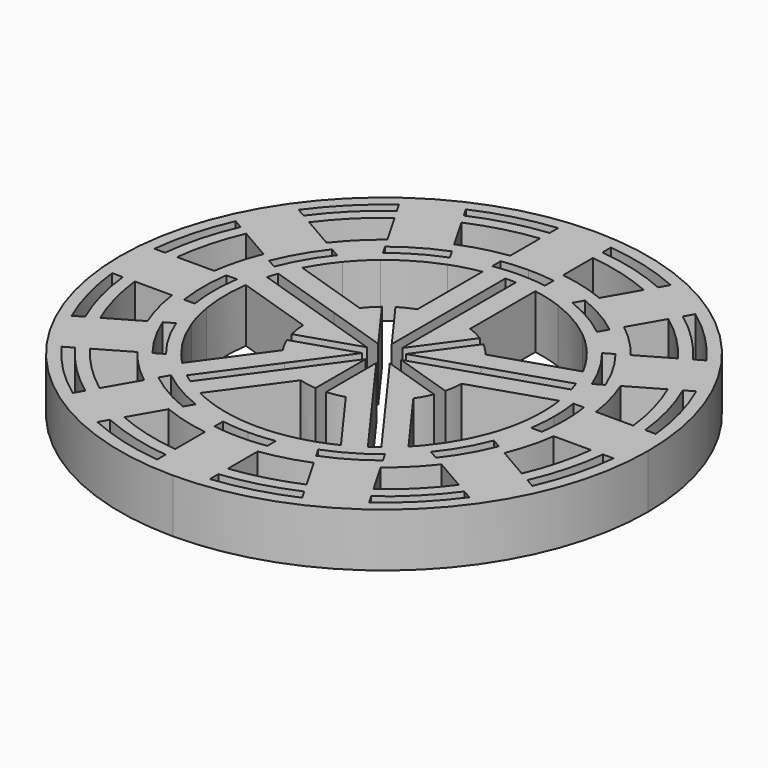
from build123d import *

# Parameters (mm, degrees)
F1_DEPTH = 5.08


with BuildPart() as f1:
    # F0 (on Top) → F1 (new body)
    with BuildSketch(Plane.XY):
        with BuildLine():
            Line((-114.7859122318, 6.0920872602), (-113.7987962999, 5.5221756112))
            ThreePointArc((-113.7987962999, 5.5221756112), (-112.3799410533, 7.5897504985), (-111.2987962999, 9.8523026301))
            Line((-111.2987962999, 9.8523026301), (-112.2859122318, 10.4222142791))
            ThreePointArc((-112.2859122318, 10.4222142791), (-113.3542196325, 8.1522504985), (-114.7859122318, 6.0920872602))
        make_face()
        with BuildLine():
            Line((-112.9228005697, 5.0164192405), (-111.9386313804, 4.4482088942))
            ThreePointArc((-111.9386313804, 4.4482088942), (-110.5396370702, 6.5272504985), (-109.4386313804, 8.7783359131))
            Line((-109.4386313804, 8.7783359131), (-110.4228005697, 9.3465462594))
            ThreePointArc((-110.4228005697, 9.3465462594), (-111.5139156495, 7.0897504985), (-112.9228005697, 5.0164192405))
        make_face()
        with BuildLine():
            ThreePointArc((-128.8446006893, -0.2777722573), (-127.5983965385, -0.4239312922), (-126.3446006893, -0.4727495015))
            Line((-126.3446006893, -0.4727495015), (-126.3446006893, 0.6522504985))
            ThreePointArc((-126.3446006893, 0.6522504985), (-127.5989945935, 0.7047926567), (-128.8446006893, 0.8620510408))
            Line((-128.8446006893, 0.8620510408), (-128.8446006893, -0.2777722573))
        make_face()
        with BuildLine():
            ThreePointArc((-128.8446006893, -2.4257056913), (-127.5975571004, -2.5546877458), (-126.3446006893, -2.5977495015))
            Line((-126.3446006893, -2.5977495015), (-126.3446006893, -1.4727495015))
            ThreePointArc((-126.3446006893, -1.4727495015), (-127.5979620921, -1.4268217887), (-128.8446006893, -1.2892849986))
            Line((-128.8446006893, -1.2892849986), (-128.8446006893, -2.4257056913))
        make_face()
        with BuildLine():
            Line((-126.3446006893, 33.9022504985), (-126.3446006893, 37.4022504985))
            ThreePointArc((-126.3446006893, 37.4022504985), (-127.5966770566, 37.3661816205), (-128.8446006893, 37.2580946153))
            Line((-128.8446006893, 37.2580946153), (-128.8446006893, 33.7302066883))
            ThreePointArc((-128.8446006893, 33.7302066883), (-127.5975571004, 33.8591887428), (-126.3446006893, 33.9022504985))
        make_face()
        with BuildLine():
            ThreePointArc((-128.8446006893, -5.9535936183), (-127.5966770566, -6.0616806235), (-126.3446006893, -6.0977495015))
            Line((-126.3446006893, -6.0977495015), (-126.3446006893, -2.5977495015))
            ThreePointArc((-126.3446006893, -2.5977495015), (-127.5975571004, -2.5546877458), (-128.8446006893, -2.4257056913))
            Line((-128.8446006893, -2.4257056913), (-128.8446006893, -5.9535936183))
        make_face()
        with BuildLine():
            Line((-126.3446006893, 39.5272504985), (-126.3446006893, 40.6522504985))
            ThreePointArc((-126.3446006893, 40.6522504985), (-151.3446006893, 15.6522504985), (-126.3446006893, -9.3477495015))
            Line((-126.3446006893, -9.3477495015), (-126.3446006893, -8.2227495015))
            ThreePointArc((-126.3446006893, -8.2227495015), (-127.5963221817, -8.1899142166), (-128.8446006893, -8.0914986789))
            ThreePointArc((-128.8446006893, -8.0914986789), (-132.5239053911, -7.4092286041), (-136.0514117685, -6.1604394702))
            ThreePointArc((-136.0514117685, -6.1604394702), (-138.2821006893, -5.0241060168), (-140.3815387875, -3.6604394702))
            ThreePointArc((-140.3815387875, -3.6604394702), (-143.2267750901, -1.2299239023), (-145.657290658, 1.6153124004))
            ThreePointArc((-145.657290658, 1.6153124004), (-147.0209572046, 3.7147504985), (-148.157290658, 5.9454394193))
            ThreePointArc((-148.157290658, 5.9454394193), (-149.4060797919, 9.4729457967), (-150.0883498667, 13.1522504985))
            ThreePointArc((-150.0883498667, 13.1522504985), (-150.2196006893, 15.6522504985), (-150.0883498667, 18.1522504985))
            ThreePointArc((-150.0883498667, 18.1522504985), (-149.4060797919, 21.8315552004), (-148.157290658, 25.3590615778))
            ThreePointArc((-148.157290658, 25.3590615778), (-147.0209572046, 27.5897504985), (-145.657290658, 29.6891885967))
            ThreePointArc((-145.657290658, 29.6891885967), (-143.2267750901, 32.5344248994), (-140.3815387875, 34.9649404673))
            ThreePointArc((-140.3815387875, 34.9649404673), (-138.2821006893, 36.3286070139), (-136.0514117685, 37.4649404673))
            ThreePointArc((-136.0514117685, 37.4649404673), (-132.5239053911, 38.7137296012), (-128.8446006893, 39.3959996759))
            ThreePointArc((-128.8446006893, 39.3959996759), (-127.5963221817, 39.4944152137), (-126.3446006893, 39.5272504985))
        make_face()
        with BuildLine():
            ThreePointArc((-126.3446006893, -9.3477495015), (-108.6669311596, -2.0254190311), (-101.3446006893, 15.6522504985))
            ThreePointArc((-101.3446006893, 15.6522504985), (-108.6669311596, 33.3299200282), (-126.3446006893, 40.6522504985))
            Line((-126.3446006893, 40.6522504985), (-126.3446006893, 39.5272504985))
            ThreePointArc((-126.3446006893, 39.5272504985), (-125.0928791969, 39.4944152137), (-123.8446006893, 39.3959996759))
            ThreePointArc((-123.8446006893, 39.3959996759), (-120.1652959875, 38.7137296012), (-116.63778961, 37.4649404673))
            ThreePointArc((-116.63778961, 37.4649404673), (-114.4071006893, 36.3286070139), (-112.3076625911, 34.9649404673))
            ThreePointArc((-112.3076625911, 34.9649404673), (-109.4624262885, 32.5344248994), (-107.0319107206, 29.6891885967))
            ThreePointArc((-107.0319107206, 29.6891885967), (-105.6682441739, 27.5897504985), (-104.5319107206, 25.3590615778))
            ThreePointArc((-104.5319107206, 25.3590615778), (-103.2831215866, 21.8315552004), (-102.6008515119, 18.1522504985))
            ThreePointArc((-102.6008515119, 18.1522504985), (-102.5024359741, 16.903971991), (-102.4696006893, 15.6522504985))
            ThreePointArc((-102.4696006893, 15.6522504985), (-102.5024359741, 14.4005290061), (-102.6008515119, 13.1522504985))
            ThreePointArc((-102.6008515119, 13.1522504985), (-103.2831215866, 9.4729457967), (-104.5319107206, 5.9454394193))
            ThreePointArc((-104.5319107206, 5.9454394193), (-105.6682441739, 3.7147504985), (-107.0319107206, 1.6153124004))
            ThreePointArc((-107.0319107206, 1.6153124004), (-109.4624262885, -1.2299239023), (-112.3076625911, -3.6604394702))
            ThreePointArc((-112.3076625911, -3.6604394702), (-114.4071006893, -5.0241060168), (-116.63778961, -6.1604394702))
            ThreePointArc((-116.63778961, -6.1604394702), (-120.1652959875, -7.4092286041), (-123.8446006893, -8.0914986789))
            ThreePointArc((-123.8446006893, -8.0914986789), (-125.0928791969, -8.1899142166), (-126.3446006893, -8.2227495015))
            Line((-126.3446006893, -8.2227495015), (-126.3446006893, -9.3477495015))
        make_face()
        with BuildLine():
            Line((-131.5746369087, 29.710938956), (-132.1445485577, 30.6980548879))
            ThreePointArc((-132.1445485577, 30.6980548879), (-134.4071006893, 29.6169101346), (-136.4746755766, 28.1980548879))
            Line((-136.4746755766, 28.1980548879), (-135.9047639276, 27.210938956))
            ThreePointArc((-135.9047639276, 27.210938956), (-133.8446006893, 28.6426315553), (-131.5746369087, 29.710938956))
        make_face()
        with BuildLine():
            Line((-132.6503049284, 31.5740506182), (-133.2185152747, 32.5582198074))
            ThreePointArc((-133.2185152747, 32.5582198074), (-135.4696006893, 31.4572141176), (-137.5486422936, 30.0582198074))
            Line((-137.5486422936, 30.0582198074), (-136.9804319473, 29.0740506182))
            ThreePointArc((-136.9804319473, 29.0740506182), (-134.9071006893, 30.4829355383), (-132.6503049284, 31.5740506182))
        make_face()
        with BuildLine():
            Line((-133.2185152747, 32.5582198074), (-134.9824592382, 35.6134603739))
            ThreePointArc((-134.9824592382, 35.6134603739), (-137.2196006893, 34.4883030308), (-139.3125862572, 33.1134603739))
            Line((-139.3125862572, 33.1134603739), (-137.5486422936, 30.0582198074))
            ThreePointArc((-137.5486422936, 30.0582198074), (-135.4696006893, 31.4572141176), (-133.2185152747, 32.5582198074))
        make_face()
        with BuildLine():
            Line((-140.7505699981, 26.8562921029), (-143.8058105647, 28.6202360664))
            ThreePointArc((-143.8058105647, 28.6202360664), (-145.1806532216, 26.5272504985), (-146.3058105647, 24.2901090475))
            Line((-146.3058105647, 24.2901090475), (-143.2505699981, 22.526165084))
            ThreePointArc((-143.2505699981, 22.526165084), (-142.1495643084, 24.7772504985), (-140.7505699981, 26.8562921029))
        make_face()
        with BuildLine():
            Line((-139.7664008089, 26.2880817566), (-140.7505699981, 26.8562921029))
            ThreePointArc((-140.7505699981, 26.8562921029), (-142.1495643084, 24.7772504985), (-143.2505699981, 22.526165084))
            Line((-143.2505699981, 22.526165084), (-142.2664008089, 21.9579547376))
            ThreePointArc((-142.2664008089, 21.9579547376), (-141.1752857291, 24.2147504985), (-139.7664008089, 26.2880817566))
        make_face()
        with BuildLine():
            Line((-144.4225568791, 18.1522504985), (-147.9504448061, 18.1522504985))
            ThreePointArc((-147.9504448061, 18.1522504985), (-148.0946006893, 15.6522504985), (-147.9504448061, 13.1522504985))
            Line((-147.9504448061, 13.1522504985), (-144.4225568791, 13.1522504985))
            ThreePointArc((-144.4225568791, 13.1522504985), (-144.5946006893, 15.6522504985), (-144.4225568791, 18.1522504985))
        make_face()
        with BuildLine():
            Line((-143.2861361864, 18.1522504985), (-144.4225568791, 18.1522504985))
            ThreePointArc((-144.4225568791, 18.1522504985), (-144.5946006893, 15.6522504985), (-144.4225568791, 13.1522504985))
            Line((-144.4225568791, 13.1522504985), (-143.2861361864, 13.1522504985))
            ThreePointArc((-143.2861361864, 13.1522504985), (-143.4696006893, 15.6522504985), (-143.2861361864, 18.1522504985))
        make_face()
        with BuildLine():
            Line((-135.9047639276, 27.210938956), (-136.4746755766, 28.1980548879))
            ThreePointArc((-136.4746755766, 28.1980548879), (-137.7466975359, 27.0543473452), (-138.8904050787, 25.7823253859))
            Line((-138.8904050787, 25.7823253859), (-137.9032891467, 25.2124137369))
            ThreePointArc((-137.9032891467, 25.2124137369), (-136.9512024071, 26.2588522163), (-135.9047639276, 27.210938956))
        make_face()
        with BuildLine():
            Line((-136.9804319473, 29.0740506182), (-137.5486422936, 30.0582198074))
            ThreePointArc((-137.5486422936, 30.0582198074), (-139.2492994459, 28.5569492552), (-140.7505699981, 26.8562921029))
            Line((-140.7505699981, 26.8562921029), (-139.7664008089, 26.2880817566))
            ThreePointArc((-139.7664008089, 26.2880817566), (-138.4538043171, 27.7614541264), (-136.9804319473, 29.0740506182))
        make_face()
        with BuildLine():
            Line((-142.2664008089, 21.9579547376), (-143.2505699981, 22.526165084))
            ThreePointArc((-143.2505699981, 22.526165084), (-143.9727470191, 20.3756980717), (-144.4225568791, 18.1522504985))
            Line((-144.4225568791, 18.1522504985), (-143.2861361864, 18.1522504985))
            ThreePointArc((-143.2861361864, 18.1522504985), (-142.8860804645, 20.0845266459), (-142.2664008089, 21.9579547376))
        make_face()
        with BuildLine():
            ThreePointArc((-142.2746234451, 13.1522504985), (-141.9201546382, 11.4787933963), (-141.3904050787, 9.8523026301))
            Line((-141.3904050787, 9.8523026301), (-140.4032891467, 10.4222142791))
            ThreePointArc((-140.4032891467, 10.4222142791), (-140.8334880836, 11.769964822), (-141.134800147, 13.1522504985))
            Line((-141.134800147, 13.1522504985), (-142.2746234451, 13.1522504985))
        make_face()
        with BuildLine():
            ThreePointArc((-144.4225568791, 13.1522504985), (-143.9727470191, 10.9288029254), (-143.2505699981, 8.7783359131))
            Line((-143.2505699981, 8.7783359131), (-142.2664008089, 9.3465462594))
            ThreePointArc((-142.2664008089, 9.3465462594), (-142.8860804645, 11.2199743512), (-143.2861361864, 13.1522504985))
            Line((-143.2861361864, 13.1522504985), (-144.4225568791, 13.1522504985))
        make_face()
        with BuildLine():
            ThreePointArc((-141.3904050787, 9.8523026301), (-140.3092603253, 7.5897504985), (-138.8904050787, 5.5221756112))
            Line((-138.8904050787, 5.5221756112), (-137.9032891467, 6.0920872602))
            ThreePointArc((-137.9032891467, 6.0920872602), (-139.3349817461, 8.1522504985), (-140.4032891467, 10.4222142791))
            Line((-140.4032891467, 10.4222142791), (-141.3904050787, 9.8523026301))
        make_face()
        with BuildLine():
            ThreePointArc((-143.2505699981, 8.7783359131), (-142.1495643084, 6.5272504985), (-140.7505699981, 4.4482088942))
            Line((-140.7505699981, 4.4482088942), (-139.7664008089, 5.0164192405))
            ThreePointArc((-139.7664008089, 5.0164192405), (-141.1752857291, 7.0897504985), (-142.2664008089, 9.3465462594))
            Line((-142.2664008089, 9.3465462594), (-143.2505699981, 8.7783359131))
        make_face()
        with BuildLine():
            ThreePointArc((-146.3058105647, 7.0143919496), (-145.1806532216, 4.7772504985), (-143.8058105647, 2.6842649307))
            Line((-143.8058105647, 2.6842649307), (-140.7505699981, 4.4482088942))
            ThreePointArc((-140.7505699981, 4.4482088942), (-142.1495643084, 6.5272504985), (-143.2505699981, 8.7783359131))
            Line((-143.2505699981, 8.7783359131), (-146.3058105647, 7.0143919496))
        make_face()
        with BuildLine():
            ThreePointArc((-139.3125862572, -1.8089593768), (-137.2196006893, -3.1838020338), (-134.9824592382, -4.3089593768))
            Line((-134.9824592382, -4.3089593768), (-133.2185152747, -1.2537188103))
            ThreePointArc((-133.2185152747, -1.2537188103), (-135.4696006893, -0.1527131205), (-137.5486422936, 1.2462811897))
            Line((-137.5486422936, 1.2462811897), (-139.3125862572, -1.8089593768))
        make_face()
        with BuildLine():
            ThreePointArc((-137.5486422936, 1.2462811897), (-135.4696006893, -0.1527131205), (-133.2185152747, -1.2537188103))
            Line((-133.2185152747, -1.2537188103), (-132.6503049284, -0.2695496211))
            ThreePointArc((-132.6503049284, -0.2695496211), (-134.9071006893, 0.8215654587), (-136.9804319473, 2.2304503789))
            Line((-136.9804319473, 2.2304503789), (-137.5486422936, 1.2462811897))
        make_face()
        with BuildLine():
            ThreePointArc((-140.7505699981, 4.4482088942), (-139.2492994459, 2.7475517419), (-137.5486422936, 1.2462811897))
            Line((-137.5486422936, 1.2462811897), (-136.9804319473, 2.2304503789))
            ThreePointArc((-136.9804319473, 2.2304503789), (-138.4538043171, 3.5430468707), (-139.7664008089, 5.0164192405))
            Line((-139.7664008089, 5.0164192405), (-140.7505699981, 4.4482088942))
        make_face()
        with BuildLine():
            ThreePointArc((-132.1445485577, 0.6064461092), (-130.5180577916, 0.0766965496), (-128.8446006893, -0.2777722573))
            Line((-128.8446006893, -0.2777722573), (-128.8446006893, 0.8620510408))
            ThreePointArc((-128.8446006893, 0.8620510408), (-130.2268863658, 1.1633631042), (-131.5746369087, 1.5935620411))
            Line((-131.5746369087, 1.5935620411), (-132.1445485577, 0.6064461092))
        make_face()
        with BuildLine():
            ThreePointArc((-133.2185152747, -1.2537188103), (-131.0680482624, -1.9758958312), (-128.8446006893, -2.4257056913))
            Line((-128.8446006893, -2.4257056913), (-128.8446006893, -1.2892849986))
            ThreePointArc((-128.8446006893, -1.2892849986), (-130.7768768367, -0.8892292767), (-132.6503049284, -0.2695496211))
            Line((-132.6503049284, -0.2695496211), (-133.2185152747, -1.2537188103))
        make_face()
        with BuildLine():
            Line((-126.3446006893, 0.6522504985), (-126.3446006893, -0.4727495015))
            ThreePointArc((-126.3446006893, -0.4727495015), (-125.0908048401, -0.4239312922), (-123.8446006893, -0.2777722573))
            Line((-123.8446006893, -0.2777722573), (-123.8446006893, 0.8620510408))
            ThreePointArc((-123.8446006893, 0.8620510408), (-125.0902067851, 0.7047926567), (-126.3446006893, 0.6522504985))
        make_face()
        with BuildLine():
            Line((-126.3446006893, -1.4727495015), (-126.3446006893, -2.5977495015))
            ThreePointArc((-126.3446006893, -2.5977495015), (-125.0916442782, -2.5546877458), (-123.8446006893, -2.4257056913))
            Line((-123.8446006893, -2.4257056913), (-123.8446006893, -1.2892849986))
            ThreePointArc((-123.8446006893, -1.2892849986), (-125.0912392865, -1.4268217887), (-126.3446006893, -1.4727495015))
        make_face()
        with BuildLine():
            Line((-126.3446006893, -2.5977495015), (-126.3446006893, -6.0977495015))
            ThreePointArc((-126.3446006893, -6.0977495015), (-125.0925243219, -6.0616806235), (-123.8446006893, -5.9535936183))
            Line((-123.8446006893, -5.9535936183), (-123.8446006893, -2.4257056913))
            ThreePointArc((-123.8446006893, -2.4257056913), (-125.0916442782, -2.5546877458), (-126.3446006893, -2.5977495015))
        make_face()
        with BuildLine():
            Line((-123.8446006893, 0.8620510408), (-123.8446006893, -0.2777722573))
            ThreePointArc((-123.8446006893, -0.2777722573), (-122.171143587, 0.0766965496), (-120.5446528209, 0.6064461092))
            Line((-120.5446528209, 0.6064461092), (-121.1145644699, 1.5935620411))
            ThreePointArc((-121.1145644699, 1.5935620411), (-122.4623150127, 1.1633631042), (-123.8446006893, 0.8620510408))
        make_face()
        with BuildLine():
            Line((-123.8446006893, -1.2892849986), (-123.8446006893, -2.4257056913))
            ThreePointArc((-123.8446006893, -2.4257056913), (-121.6211531162, -1.9758958312), (-119.4706861039, -1.2537188103))
            Line((-119.4706861039, -1.2537188103), (-120.0388964502, -0.2695496211))
            ThreePointArc((-120.0388964502, -0.2695496211), (-121.9123245419, -0.8892292767), (-123.8446006893, -1.2892849986))
        make_face()
        with BuildLine():
            Line((-120.0388964502, -0.2695496211), (-119.4706861039, -1.2537188103))
            ThreePointArc((-119.4706861039, -1.2537188103), (-117.2196006893, -0.1527131205), (-115.1405590849, 1.2462811897))
            Line((-115.1405590849, 1.2462811897), (-115.7087694313, 2.2304503789))
            ThreePointArc((-115.7087694313, 2.2304503789), (-117.7821006893, 0.8215654587), (-120.0388964502, -0.2695496211))
        make_face()
        with BuildLine():
            Line((-115.7087694313, 2.2304503789), (-115.1405590849, 1.2462811897))
            ThreePointArc((-115.1405590849, 1.2462811897), (-113.4399019326, 2.7475517419), (-111.9386313804, 4.4482088942))
            Line((-111.9386313804, 4.4482088942), (-112.9228005697, 5.0164192405))
            ThreePointArc((-112.9228005697, 5.0164192405), (-114.2353970615, 3.5430468707), (-115.7087694313, 2.2304503789))
        make_face()
        with BuildLine():
            Line((-112.2859122318, 10.4222142791), (-111.2987962999, 9.8523026301))
            ThreePointArc((-111.2987962999, 9.8523026301), (-110.7690467404, 11.4787933963), (-110.4145779335, 13.1522504985))
            Line((-110.4145779335, 13.1522504985), (-111.5544012315, 13.1522504985))
            ThreePointArc((-111.5544012315, 13.1522504985), (-111.855713295, 11.769964822), (-112.2859122318, 10.4222142791))
        make_face()
        with BuildLine():
            Line((-110.4228005697, 9.3465462594), (-109.4386313804, 8.7783359131))
            ThreePointArc((-109.4386313804, 8.7783359131), (-108.7164543595, 10.9288029254), (-108.2666444995, 13.1522504985))
            Line((-108.2666444995, 13.1522504985), (-109.4030651922, 13.1522504985))
            ThreePointArc((-109.4030651922, 13.1522504985), (-109.8031209141, 11.2199743512), (-110.4228005697, 9.3465462594))
        make_face()
        with BuildLine():
            ThreePointArc((-108.0946006893, 15.6522504985), (-108.137662445, 16.9052069096), (-108.2666444995, 18.1522504985))
            Line((-108.2666444995, 18.1522504985), (-109.4030651922, 18.1522504985))
            ThreePointArc((-109.4030651922, 18.1522504985), (-109.265528402, 16.9056119013), (-109.2196006893, 15.6522504985))
            ThreePointArc((-109.2196006893, 15.6522504985), (-109.265528402, 14.3988890958), (-109.4030651922, 13.1522504985))
            Line((-109.4030651922, 13.1522504985), (-108.2666444995, 13.1522504985))
            ThreePointArc((-108.2666444995, 13.1522504985), (-108.137662445, 14.3992940874), (-108.0946006893, 15.6522504985))
        make_face()
        with BuildLine():
            ThreePointArc((-108.2666444995, 18.1522504985), (-108.7164543595, 20.3756980717), (-109.4386313804, 22.526165084))
            Line((-109.4386313804, 22.526165084), (-110.4228005697, 21.9579547376))
            ThreePointArc((-110.4228005697, 21.9579547376), (-109.8031209141, 20.0845266459), (-109.4030651922, 18.1522504985))
            Line((-109.4030651922, 18.1522504985), (-108.2666444995, 18.1522504985))
        make_face()
        with BuildLine():
            ThreePointArc((-109.4386313804, 22.526165084), (-110.5396370702, 24.7772504985), (-111.9386313804, 26.8562921029))
            Line((-111.9386313804, 26.8562921029), (-112.9228005697, 26.2880817566))
            ThreePointArc((-112.9228005697, 26.2880817566), (-111.5139156495, 24.2147504985), (-110.4228005697, 21.9579547376))
            Line((-110.4228005697, 21.9579547376), (-109.4386313804, 22.526165084))
        make_face()
        with BuildLine():
            ThreePointArc((-113.7987962999, 25.7823253859), (-114.9425038427, 27.0543473452), (-116.2145258019, 28.1980548879))
            Line((-116.2145258019, 28.1980548879), (-116.784437451, 27.210938956))
            ThreePointArc((-116.784437451, 27.210938956), (-115.7379989715, 26.2588522163), (-114.7859122318, 25.2124137369))
            Line((-114.7859122318, 25.2124137369), (-113.7987962999, 25.7823253859))
        make_face()
        with BuildLine():
            ThreePointArc((-111.9386313804, 26.8562921029), (-113.4399019326, 28.5569492552), (-115.1405590849, 30.0582198074))
            Line((-115.1405590849, 30.0582198074), (-115.7087694313, 29.0740506182))
            ThreePointArc((-115.7087694313, 29.0740506182), (-114.2353970615, 27.7614541264), (-112.9228005697, 26.2880817566))
            Line((-112.9228005697, 26.2880817566), (-111.9386313804, 26.8562921029))
        make_face()
        with BuildLine():
            ThreePointArc((-116.2145258019, 28.1980548879), (-118.2821006893, 29.6169101346), (-120.5446528209, 30.6980548879))
            Line((-120.5446528209, 30.6980548879), (-121.1145644699, 29.710938956))
            ThreePointArc((-121.1145644699, 29.710938956), (-118.8446006893, 28.6426315553), (-116.784437451, 27.210938956))
            Line((-116.784437451, 27.210938956), (-116.2145258019, 28.1980548879))
        make_face()
        with BuildLine():
            ThreePointArc((-115.1405590849, 30.0582198074), (-117.2196006893, 31.4572141176), (-119.4706861039, 32.5582198074))
            Line((-119.4706861039, 32.5582198074), (-120.0388964502, 31.5740506182))
            ThreePointArc((-120.0388964502, 31.5740506182), (-117.7821006893, 30.4829355383), (-115.7087694313, 29.0740506182))
            Line((-115.7087694313, 29.0740506182), (-115.1405590849, 30.0582198074))
        make_face()
        with BuildLine():
            ThreePointArc((-120.5446528209, 30.6980548879), (-122.171143587, 31.2278044474), (-123.8446006893, 31.5822732543))
            Line((-123.8446006893, 31.5822732543), (-123.8446006893, 30.4424499563))
            ThreePointArc((-123.8446006893, 30.4424499563), (-122.4623150127, 30.1411378929), (-121.1145644699, 29.710938956))
            Line((-121.1145644699, 29.710938956), (-120.5446528209, 30.6980548879))
        make_face()
        with BuildLine():
            ThreePointArc((-119.4706861039, 32.5582198074), (-121.6211531162, 33.2803968283), (-123.8446006893, 33.7302066883))
            Line((-123.8446006893, 33.7302066883), (-123.8446006893, 32.5937859956))
            ThreePointArc((-123.8446006893, 32.5937859956), (-121.9123245419, 32.1937302737), (-120.0388964502, 31.5740506182))
            Line((-120.0388964502, 31.5740506182), (-119.4706861039, 32.5582198074))
        make_face()
        with BuildLine():
            ThreePointArc((-123.8446006893, 33.7302066883), (-125.0916442782, 33.8591887428), (-126.3446006893, 33.9022504985))
            Line((-126.3446006893, 33.9022504985), (-126.3446006893, 32.7772504985))
            ThreePointArc((-126.3446006893, 32.7772504985), (-125.0912392865, 32.7313227858), (-123.8446006893, 32.5937859956))
            Line((-123.8446006893, 32.5937859956), (-123.8446006893, 33.7302066883))
        make_face()
        with BuildLine():
            Line((-126.3446006893, 32.7772504985), (-126.3446006893, 33.9022504985))
            ThreePointArc((-126.3446006893, 33.9022504985), (-127.5975571004, 33.8591887428), (-128.8446006893, 33.7302066883))
            Line((-128.8446006893, 33.7302066883), (-128.8446006893, 32.5937859956))
            ThreePointArc((-128.8446006893, 32.5937859956), (-127.5979620921, 32.7313227858), (-126.3446006893, 32.7772504985))
        make_face()
        with BuildLine():
            Line((-128.8446006893, 30.4424499563), (-128.8446006893, 31.5822732543))
            ThreePointArc((-128.8446006893, 31.5822732543), (-130.5180577916, 31.2278044474), (-132.1445485577, 30.6980548879))
            Line((-132.1445485577, 30.6980548879), (-131.5746369087, 29.710938956))
            ThreePointArc((-131.5746369087, 29.710938956), (-130.2268863658, 30.1411378929), (-128.8446006893, 30.4424499563))
        make_face()
        with BuildLine():
            Line((-128.8446006893, 32.5937859956), (-128.8446006893, 33.7302066883))
            ThreePointArc((-128.8446006893, 33.7302066883), (-131.0680482624, 33.2803968283), (-133.2185152747, 32.5582198074))
            Line((-133.2185152747, 32.5582198074), (-132.6503049284, 31.5740506182))
            ThreePointArc((-132.6503049284, 31.5740506182), (-130.7768768367, 32.1937302737), (-128.8446006893, 32.5937859956))
        make_face()
        with BuildLine():
            ThreePointArc((-123.8446006893, 37.2580946153), (-125.0925243219, 37.3661816205), (-126.3446006893, 37.4022504985))
            Line((-126.3446006893, 37.4022504985), (-126.3446006893, 33.9022504985))
            ThreePointArc((-126.3446006893, 33.9022504985), (-125.0916442782, 33.8591887428), (-123.8446006893, 33.7302066883))
            Line((-123.8446006893, 33.7302066883), (-123.8446006893, 37.2580946153))
        make_face()
        with BuildLine():
            ThreePointArc((-113.3766151214, 33.1134603739), (-115.4696006893, 34.4883030308), (-117.7067421403, 35.6134603739))
            Line((-117.7067421403, 35.6134603739), (-119.4706861039, 32.5582198074))
            ThreePointArc((-119.4706861039, 32.5582198074), (-117.2196006893, 31.4572141176), (-115.1405590849, 30.0582198074))
            Line((-115.1405590849, 30.0582198074), (-113.3766151214, 33.1134603739))
        make_face()
        with BuildLine():
            ThreePointArc((-106.3833908139, 24.2901090475), (-107.508548157, 26.5272504985), (-108.8833908139, 28.6202360664))
            Line((-108.8833908139, 28.6202360664), (-111.9386313804, 26.8562921029))
            ThreePointArc((-111.9386313804, 26.8562921029), (-110.5396370702, 24.7772504985), (-109.4386313804, 22.526165084))
            Line((-109.4386313804, 22.526165084), (-106.3833908139, 24.2901090475))
        make_face()
        with BuildLine():
            ThreePointArc((-104.5946006893, 15.6522504985), (-104.6306695673, 16.9043268659), (-104.7387565725, 18.1522504985))
            Line((-104.7387565725, 18.1522504985), (-108.2666444995, 18.1522504985))
            ThreePointArc((-108.2666444995, 18.1522504985), (-108.137662445, 16.9052069096), (-108.0946006893, 15.6522504985))
            ThreePointArc((-108.0946006893, 15.6522504985), (-108.137662445, 14.3992940874), (-108.2666444995, 13.1522504985))
            Line((-108.2666444995, 13.1522504985), (-104.7387565725, 13.1522504985))
            ThreePointArc((-104.7387565725, 13.1522504985), (-104.6306695673, 14.4001741312), (-104.5946006893, 15.6522504985))
        make_face()
        with BuildLine():
            Line((-111.9386313804, 4.4482088942), (-108.8833908139, 2.6842649307))
            ThreePointArc((-108.8833908139, 2.6842649307), (-107.508548157, 4.7772504985), (-106.3833908139, 7.0143919496))
            Line((-106.3833908139, 7.0143919496), (-109.4386313804, 8.7783359131))
            ThreePointArc((-109.4386313804, 8.7783359131), (-110.5396370702, 6.5272504985), (-111.9386313804, 4.4482088942))
        make_face()
        with BuildLine():
            Line((-119.4706861039, -1.2537188103), (-117.7067421403, -4.3089593768))
            ThreePointArc((-117.7067421403, -4.3089593768), (-115.4696006893, -3.1838020338), (-113.3766151214, -1.8089593768))
            Line((-113.3766151214, -1.8089593768), (-115.1405590849, 1.2462811897))
            ThreePointArc((-115.1405590849, 1.2462811897), (-117.2196006893, -0.1527131205), (-119.4706861039, -1.2537188103))
        make_face()
        with BuildLine():
            ThreePointArc((-139.6383737749, 22.6003147719), (-140.0477825539, 21.7533001447), (-140.4032891467, 20.8822867179))
            ThreePointArc((-140.4032891467, 20.8822867179), (-140.4257824617, 20.8214206341), (-140.4480122628, 20.760457815))
            Line((-140.4480122628, 20.760457815), (-133.307147471, 18.440250196))
            ThreePointArc((-133.307147471, 18.440250196), (-132.8627789004, 19.3621497975), (-132.297043323, 20.2149719115))
            Line((-132.297043323, 20.2149719115), (-139.6383737749, 22.6003147719))
        make_face()
        with BuildLine():
            Line((-123.8446006893, 22.7233183104), (-123.8446006893, 30.4424499563))
            ThreePointArc((-123.8446006893, 30.4424499563), (-124.8412221522, 30.5767221131), (-125.8446006893, 30.6439148491))
            Line((-125.8446006893, 30.6439148491), (-125.8446006893, 23.1355652721))
            ThreePointArc((-125.8446006893, 23.1355652721), (-124.8305046258, 22.9978282914), (-123.8446006893, 22.7233183104))
        make_face()
        with BuildLine():
            ThreePointArc((-126.8446006893, 30.6439148491), (-127.8479792264, 30.5767221131), (-128.8446006893, 30.4424499563))
            Line((-128.8446006893, 30.4424499563), (-128.8446006893, 22.7233183104))
            ThreePointArc((-128.8446006893, 22.7233183104), (-127.8586967527, 22.9978282914), (-126.8446006893, 23.1355652721))
            Line((-126.8446006893, 23.1355652721), (-126.8446006893, 30.6439148491))
        make_face()
        with BuildLine():
            ThreePointArc((-111.5057426318, 17.8450321904), (-111.5292755804, 17.9987674741), (-111.5544012315, 18.1522504985))
            ThreePointArc((-111.5544012315, 18.1522504985), (-111.7197961403, 18.9861808975), (-111.9321721214, 19.8094012987))
            Line((-111.9321721214, 19.8094012987), (-119.0730369132, 17.4891936797))
            ThreePointArc((-119.0730369132, 17.4891936797), (-118.9019288464, 16.5777967371), (-118.8446006893, 15.6522504985))
            ThreePointArc((-118.8446006893, 15.6522504985), (-118.8452188134, 15.5559619785), (-118.8470730837, 15.45968933))
            Line((-118.8470730837, 15.45968933), (-111.5057426318, 17.8450321904))
        make_face()
        with BuildLine():
            Line((-124.2108737975, 8.4621733396), (-119.6736820555, 2.2172646563))
            ThreePointArc((-119.6736820555, 2.2172646563), (-118.7884751615, 2.6944355976), (-117.9372299739, 3.2298466388))
            Line((-117.9372299739, 3.2298466388), (-122.3505271243, 9.3042290463))
            ThreePointArc((-122.3505271243, 9.3042290463), (-123.2519078395, 8.819589894), (-124.2108737975, 8.4621733396))
        make_face()
        with BuildLine():
            ThreePointArc((-137.060604295, 5.1561909178), (-136.4965970695, 4.6097431068), (-135.9047639276, 4.0935620411))
            ThreePointArc((-135.9047639276, 4.0935620411), (-135.7338898391, 3.954334049), (-135.5609883991, 3.8176318911))
            Line((-135.5609883991, 3.8176318911), (-131.1476912486, 9.8920142986))
            ThreePointArc((-131.1476912486, 9.8920142986), (-131.8871524319, 10.5995165673), (-132.523412553, 11.4010996011))
            Line((-132.523412553, 11.4010996011), (-137.060604295, 5.1561909178))
        make_face()
        with BuildLine():
            ThreePointArc((-122.3505271243, 22.0002719507), (-123.0775000058, 22.403254359), (-123.8446006893, 22.7233183104))
            ThreePointArc((-123.8446006893, 22.7233183104), (-124.8305046258, 22.9978282914), (-125.8446006893, 23.1355652721))
            Line((-125.8446006893, 23.1355652721), (-125.8446006893, 17.1910922671))
            Line((-125.8446006893, 17.1910922671), (-122.3505271243, 22.0002719507))
        make_face()
        with BuildLine():
            ThreePointArc((-126.8446006893, 23.1355652721), (-127.8586967527, 22.9978282914), (-128.8446006893, 22.7233183104))
            ThreePointArc((-128.8446006893, 22.7233183104), (-129.6117013728, 22.403254359), (-130.3386742543, 22.0002719507))
            Line((-130.3386742543, 22.0002719507), (-126.8446006893, 17.1910922671))
            Line((-126.8446006893, 17.1910922671), (-126.8446006893, 23.1355652721))
        make_face()
        with BuildLine():
            Line((-127.6536176837, 16.6033070148), (-131.1476912486, 21.4124866984))
            ThreePointArc((-131.1476912486, 21.4124866984), (-131.7555972687, 20.845622815), (-132.297043323, 20.2149719115))
            ThreePointArc((-132.297043323, 20.2149719115), (-132.8627789004, 19.3621497975), (-133.307147471, 18.440250196))
            Line((-133.307147471, 18.440250196), (-127.6536176837, 16.6033070148))
        make_face()
        with BuildLine():
            Line((-127.962634678, 15.6522504985), (-133.6161644653, 17.4891936797))
            ThreePointArc((-133.6161644653, 17.4891936797), (-133.7985417298, 16.4821679426), (-133.8421282949, 15.45968933))
            ThreePointArc((-133.8421282949, 15.45968933), (-133.7747765358, 14.631228026), (-133.6161644653, 13.8153073174))
            Line((-133.6161644653, 13.8153073174), (-127.962634678, 15.6522504985))
        make_face()
        with BuildLine():
            ThreePointArc((-140.7570292572, 19.8094012987), (-140.9694052382, 18.9861808975), (-141.134800147, 18.1522504985))
            ThreePointArc((-141.134800147, 18.1522504985), (-141.1599257982, 17.9987674741), (-141.1834587468, 17.8450321904))
            Line((-141.1834587468, 17.8450321904), (-133.8421282949, 15.45968933))
            ThreePointArc((-133.8421282949, 15.45968933), (-133.7985417298, 16.4821679426), (-133.6161644653, 17.4891936797))
            Line((-133.6161644653, 17.4891936797), (-140.7570292572, 19.8094012987))
        make_face()
        with BuildLine():
            ThreePointArc((-133.307147471, 12.8642508011), (-132.9558811719, 12.1109272459), (-132.523412553, 11.4010996011))
            ThreePointArc((-132.523412553, 11.4010996011), (-131.8871524319, 10.5995165673), (-131.1476912486, 9.8920142986))
            Line((-131.1476912486, 9.8920142986), (-127.6536176837, 14.7011939822))
            Line((-127.6536176837, 14.7011939822), (-133.307147471, 12.8642508011))
        make_face()
        with BuildLine():
            ThreePointArc((-128.4783275811, 8.4621733396), (-127.6696012213, 8.2702200468), (-126.8446006893, 8.168935725))
            Line((-126.8446006893, 8.168935725), (-126.8446006893, 14.1134087299))
            Line((-126.8446006893, 14.1134087299), (-130.3386742543, 9.3042290463))
            ThreePointArc((-130.3386742543, 9.3042290463), (-129.437293539, 8.819589894), (-128.4783275811, 8.4621733396))
        make_face()
        with BuildLine():
            ThreePointArc((-134.7519714047, 3.2298466388), (-133.9007262171, 2.6944355976), (-133.0155193231, 2.2172646563))
            Line((-133.0155193231, 2.2172646563), (-128.4783275811, 8.4621733396))
            ThreePointArc((-128.4783275811, 8.4621733396), (-129.437293539, 8.819589894), (-130.3386742543, 9.3042290463))
            Line((-130.3386742543, 9.3042290463), (-134.7519714047, 3.2298466388))
        make_face()
        with BuildLine():
            Line((-125.8446006893, 14.1134087299), (-125.8446006893, 8.168935725))
            ThreePointArc((-125.8446006893, 8.168935725), (-125.0196001573, 8.2702200468), (-124.2108737975, 8.4621733396))
            ThreePointArc((-124.2108737975, 8.4621733396), (-123.2519078395, 8.819589894), (-122.3505271243, 9.3042290463))
            Line((-122.3505271243, 9.3042290463), (-125.8446006893, 14.1134087299))
        make_face()
        with BuildLine():
            Line((-125.0355836949, 14.7011939822), (-121.5415101299, 9.8920142986))
            ThreePointArc((-121.5415101299, 9.8920142986), (-120.8020489466, 10.5995165673), (-120.1657888256, 11.4010996011))
            ThreePointArc((-120.1657888256, 11.4010996011), (-119.7333202066, 12.1109272459), (-119.3820539076, 12.8642508011))
            Line((-119.3820539076, 12.8642508011), (-125.0355836949, 14.7011939822))
        make_face()
        with BuildLine():
            ThreePointArc((-117.1282129795, 3.8176318911), (-116.9553115395, 3.954334049), (-116.784437451, 4.0935620411))
            ThreePointArc((-116.784437451, 4.0935620411), (-116.1926043091, 4.6097431068), (-115.6285970836, 5.1561909178))
            Line((-115.6285970836, 5.1561909178), (-120.1657888256, 11.4010996011))
            ThreePointArc((-120.1657888256, 11.4010996011), (-120.8020489466, 10.5995165673), (-121.5415101299, 9.8920142986))
            Line((-121.5415101299, 9.8920142986), (-117.1282129795, 3.8176318911))
        make_face()
        with BuildLine():
            ThreePointArc((-118.8446006893, 15.6522504985), (-118.9019288464, 16.5777967371), (-119.0730369132, 17.4891936797))
            Line((-119.0730369132, 17.4891936797), (-124.7265667005, 15.6522504985))
            Line((-124.7265667005, 15.6522504985), (-119.0730369132, 13.8153073174))
            ThreePointArc((-119.0730369132, 13.8153073174), (-118.9144248427, 14.631228026), (-118.8470730837, 15.45968933))
            ThreePointArc((-118.8470730837, 15.45968933), (-118.8452188134, 15.5559619785), (-118.8446006893, 15.6522504985))
        make_face()
        with BuildLine():
            ThreePointArc((-120.3921580556, 20.2149719115), (-120.9336041098, 20.845622815), (-121.5415101299, 21.4124866984))
            Line((-121.5415101299, 21.4124866984), (-125.0355836949, 16.6033070148))
            Line((-125.0355836949, 16.6033070148), (-119.3820539076, 18.440250196))
            ThreePointArc((-119.3820539076, 18.440250196), (-119.8264224782, 19.3621497975), (-120.3921580556, 20.2149719115))
        make_face()
        with BuildLine():
            ThreePointArc((-112.2411891158, 20.760457815), (-112.2634189168, 20.8214206341), (-112.2859122318, 20.8822867179))
            ThreePointArc((-112.2859122318, 20.8822867179), (-112.6414188246, 21.7533001447), (-113.0508276036, 22.6003147719))
            Line((-113.0508276036, 22.6003147719), (-120.3921580556, 20.2149719115))
            ThreePointArc((-120.3921580556, 20.2149719115), (-119.8264224782, 19.3621497975), (-119.3820539076, 18.440250196))
            Line((-119.3820539076, 18.440250196), (-112.2411891158, 20.760457815))
        make_face()
        with BuildLine():
            Line((-126.3446006893, 37.4022504985), (-126.3446006893, 38.5272504985))
            ThreePointArc((-126.3446006893, 38.5272504985), (-127.5964767954, 38.4929692091), (-128.8446006893, 38.3902280911))
            ThreePointArc((-128.8446006893, 38.3902280911), (-132.265086346, 37.7478037749), (-135.5485259761, 36.5939167244))
            ThreePointArc((-135.5485259761, 36.5939167244), (-137.7821006893, 35.4625816101), (-139.878652995, 34.0939167244))
            ThreePointArc((-139.878652995, 34.0939167244), (-142.5196683089, 31.8273181182), (-144.7862669151, 29.1863028043))
            ThreePointArc((-144.7862669151, 29.1863028043), (-146.1549318009, 27.0897504985), (-147.2862669151, 24.8561757854))
            ThreePointArc((-147.2862669151, 24.8561757854), (-148.4401539656, 21.5727361553), (-149.0825782819, 18.1522504985))
            ThreePointArc((-149.0825782819, 18.1522504985), (-149.2196006893, 15.6522504985), (-149.0825782819, 13.1522504985))
            ThreePointArc((-149.0825782819, 13.1522504985), (-148.4401539656, 9.7317648418), (-147.2862669151, 6.4483252117))
            ThreePointArc((-147.2862669151, 6.4483252117), (-146.1549318009, 4.2147504985), (-144.7862669151, 2.1181981928))
            ThreePointArc((-144.7862669151, 2.1181981928), (-142.5196683089, -0.5228171211), (-139.878652995, -2.7894157273))
            ThreePointArc((-139.878652995, -2.7894157273), (-137.7821006893, -4.158080613), (-135.5485259761, -5.2894157273))
            ThreePointArc((-135.5485259761, -5.2894157273), (-132.265086346, -6.4433027778), (-128.8446006893, -7.085727094))
            ThreePointArc((-128.8446006893, -7.085727094), (-127.5964767954, -7.188468212), (-126.3446006893, -7.2227495015))
            Line((-126.3446006893, -7.2227495015), (-126.3446006893, -6.0977495015))
            ThreePointArc((-126.3446006893, -6.0977495015), (-127.5966770566, -6.0616806235), (-128.8446006893, -5.9535936183))
            ThreePointArc((-128.8446006893, -5.9535936183), (-131.9739149203, -5.3566362233), (-134.9824592382, -4.3089593768))
            ThreePointArc((-134.9824592382, -4.3089593768), (-137.2196006893, -3.1838020338), (-139.3125862572, -1.8089593768))
            ThreePointArc((-139.3125862572, -1.8089593768), (-141.7241731801, 0.2726780077), (-143.8058105647, 2.6842649307))
            ThreePointArc((-143.8058105647, 2.6842649307), (-145.1806532216, 4.7772504985), (-146.3058105647, 7.0143919496))
            ThreePointArc((-146.3058105647, 7.0143919496), (-147.3534874111, 10.0229362676), (-147.9504448061, 13.1522504985))
            ThreePointArc((-147.9504448061, 13.1522504985), (-148.0946006893, 15.6522504985), (-147.9504448061, 18.1522504985))
            ThreePointArc((-147.9504448061, 18.1522504985), (-147.3534874111, 21.2815647295), (-146.3058105647, 24.2901090475))
            ThreePointArc((-146.3058105647, 24.2901090475), (-145.1806532216, 26.5272504985), (-143.8058105647, 28.6202360664))
            ThreePointArc((-143.8058105647, 28.6202360664), (-141.7241731801, 31.0318229893), (-139.3125862572, 33.1134603739))
            ThreePointArc((-139.3125862572, 33.1134603739), (-137.2196006893, 34.4883030308), (-134.9824592382, 35.6134603739))
            ThreePointArc((-134.9824592382, 35.6134603739), (-131.9739149203, 36.6611372203), (-128.8446006893, 37.2580946153))
            ThreePointArc((-128.8446006893, 37.2580946153), (-127.5966770566, 37.3661816205), (-126.3446006893, 37.4022504985))
        make_face()
        with BuildLine():
            ThreePointArc((-123.8446006893, 38.3902280911), (-125.0927245832, 38.4929692091), (-126.3446006893, 38.5272504985))
            Line((-126.3446006893, 38.5272504985), (-126.3446006893, 37.4022504985))
            ThreePointArc((-126.3446006893, 37.4022504985), (-125.0925243219, 37.3661816205), (-123.8446006893, 37.2580946153))
            ThreePointArc((-123.8446006893, 37.2580946153), (-120.7152864583, 36.6611372203), (-117.7067421403, 35.6134603739))
            ThreePointArc((-117.7067421403, 35.6134603739), (-115.4696006893, 34.4883030308), (-113.3766151214, 33.1134603739))
            ThreePointArc((-113.3766151214, 33.1134603739), (-110.9650281985, 31.0318229893), (-108.8833908139, 28.6202360664))
            ThreePointArc((-108.8833908139, 28.6202360664), (-107.508548157, 26.5272504985), (-106.3833908139, 24.2901090475))
            ThreePointArc((-106.3833908139, 24.2901090475), (-105.3357139675, 21.2815647295), (-104.7387565725, 18.1522504985))
            ThreePointArc((-104.7387565725, 18.1522504985), (-104.6306695673, 16.9043268659), (-104.5946006893, 15.6522504985))
            ThreePointArc((-104.5946006893, 15.6522504985), (-104.6306695673, 14.4001741312), (-104.7387565725, 13.1522504985))
            ThreePointArc((-104.7387565725, 13.1522504985), (-105.3357139675, 10.0229362676), (-106.3833908139, 7.0143919496))
            ThreePointArc((-106.3833908139, 7.0143919496), (-107.508548157, 4.7772504985), (-108.8833908139, 2.6842649307))
            ThreePointArc((-108.8833908139, 2.6842649307), (-110.9650281985, 0.2726780077), (-113.3766151214, -1.8089593768))
            ThreePointArc((-113.3766151214, -1.8089593768), (-115.4696006893, -3.1838020338), (-117.7067421403, -4.3089593768))
            ThreePointArc((-117.7067421403, -4.3089593768), (-120.7152864583, -5.3566362233), (-123.8446006893, -5.9535936183))
            ThreePointArc((-123.8446006893, -5.9535936183), (-125.0925243219, -6.0616806235), (-126.3446006893, -6.0977495015))
            Line((-126.3446006893, -6.0977495015), (-126.3446006893, -7.2227495015))
            ThreePointArc((-126.3446006893, -7.2227495015), (-125.0927245832, -7.188468212), (-123.8446006893, -7.085727094))
            ThreePointArc((-123.8446006893, -7.085727094), (-120.4241150326, -6.4433027778), (-117.1406754025, -5.2894157273))
            ThreePointArc((-117.1406754025, -5.2894157273), (-114.9071006893, -4.158080613), (-112.8105483835, -2.7894157273))
            ThreePointArc((-112.8105483835, -2.7894157273), (-110.1695330696, -0.5228171211), (-107.9029344634, 2.1181981928))
            ThreePointArc((-107.9029344634, 2.1181981928), (-106.5342695777, 4.2147504985), (-105.4029344634, 6.4483252117))
            ThreePointArc((-105.4029344634, 6.4483252117), (-104.2490474129, 9.7317648418), (-103.6066230967, 13.1522504985))
            ThreePointArc((-103.6066230967, 13.1522504985), (-103.5038819787, 14.4003743924), (-103.4696006893, 15.6522504985))
            ThreePointArc((-103.4696006893, 15.6522504985), (-103.5038819787, 16.9041266046), (-103.6066230967, 18.1522504985))
            ThreePointArc((-103.6066230967, 18.1522504985), (-104.2490474129, 21.5727361553), (-105.4029344634, 24.8561757854))
            ThreePointArc((-105.4029344634, 24.8561757854), (-106.5342695777, 27.0897504985), (-107.9029344634, 29.1863028043))
            ThreePointArc((-107.9029344634, 29.1863028043), (-110.1695330696, 31.8273181182), (-112.8105483835, 34.0939167244))
            ThreePointArc((-112.8105483835, 34.0939167244), (-114.9071006893, 35.4625816101), (-117.1406754025, 36.5939167244))
            ThreePointArc((-117.1406754025, 36.5939167244), (-120.4241150326, 37.7478037749), (-123.8446006893, 38.3902280911))
        make_face()
        with BuildLine():
            ThreePointArc((-136.4746755766, 3.1064461092), (-134.4071006893, 1.6875908625), (-132.1445485577, 0.6064461092))
            Line((-132.1445485577, 0.6064461092), (-131.5746369087, 1.5935620411))
            ThreePointArc((-131.5746369087, 1.5935620411), (-132.3032442298, 1.8865479317), (-133.0155193231, 2.2172646563))
            ThreePointArc((-133.0155193231, 2.2172646563), (-133.9007262171, 2.6944355976), (-134.7519714047, 3.2298466388))
            ThreePointArc((-134.7519714047, 3.2298466388), (-135.1613794737, 3.5169955829), (-135.5609883991, 3.8176318911))
            ThreePointArc((-135.5609883991, 3.8176318911), (-135.7338898391, 3.954334049), (-135.9047639276, 4.0935620411))
            Line((-135.9047639276, 4.0935620411), (-136.4746755766, 3.1064461092))
        make_face()
        with BuildLine():
            ThreePointArc((-138.8904050787, 5.5221756112), (-137.7466975359, 4.2501536519), (-136.4746755766, 3.1064461092))
            Line((-136.4746755766, 3.1064461092), (-135.9047639276, 4.0935620411))
            ThreePointArc((-135.9047639276, 4.0935620411), (-136.4965970695, 4.6097431068), (-137.060604295, 5.1561909178))
            ThreePointArc((-137.060604295, 5.1561909178), (-137.4917730714, 5.6152914032), (-137.9032891467, 6.0920872602))
            Line((-137.9032891467, 6.0920872602), (-138.8904050787, 5.5221756112))
        make_face()
        with BuildLine():
            Line((-141.134800147, 18.1522504985), (-142.2746234451, 18.1522504985))
            ThreePointArc((-142.2746234451, 18.1522504985), (-142.4696006893, 15.6522504985), (-142.2746234451, 13.1522504985))
            Line((-142.2746234451, 13.1522504985), (-141.134800147, 13.1522504985))
            ThreePointArc((-141.134800147, 13.1522504985), (-141.3437944114, 15.4967265871), (-141.1834587468, 17.8450321904))
            ThreePointArc((-141.1834587468, 17.8450321904), (-141.1599257982, 17.9987674741), (-141.134800147, 18.1522504985))
        make_face()
        with BuildLine():
            Line((-121.1145644699, 1.5935620411), (-120.5446528209, 0.6064461092))
            ThreePointArc((-120.5446528209, 0.6064461092), (-118.2821006893, 1.6875908625), (-116.2145258019, 3.1064461092))
            Line((-116.2145258019, 3.1064461092), (-116.784437451, 4.0935620411))
            ThreePointArc((-116.784437451, 4.0935620411), (-116.9553115395, 3.954334049), (-117.1282129795, 3.8176318911))
            ThreePointArc((-117.1282129795, 3.8176318911), (-117.5278219049, 3.5169955829), (-117.9372299739, 3.2298466388))
            ThreePointArc((-117.9372299739, 3.2298466388), (-118.7884751615, 2.6944355976), (-119.6736820555, 2.2172646563))
            ThreePointArc((-119.6736820555, 2.2172646563), (-120.3859571488, 1.8865479317), (-121.1145644699, 1.5935620411))
        make_face()
        with BuildLine():
            Line((-116.784437451, 4.0935620411), (-116.2145258019, 3.1064461092))
            ThreePointArc((-116.2145258019, 3.1064461092), (-114.9425038427, 4.2501536519), (-113.7987962999, 5.5221756112))
            Line((-113.7987962999, 5.5221756112), (-114.7859122318, 6.0920872602))
            ThreePointArc((-114.7859122318, 6.0920872602), (-115.1974283071, 5.6152914032), (-115.6285970836, 5.1561909178))
            ThreePointArc((-115.6285970836, 5.1561909178), (-116.1926043091, 4.6097431068), (-116.784437451, 4.0935620411))
        make_face()
        with BuildLine():
            ThreePointArc((-110.2196006893, 15.6522504985), (-110.2684188986, 16.9060463477), (-110.4145779335, 18.1522504985))
            Line((-110.4145779335, 18.1522504985), (-111.5544012315, 18.1522504985))
            ThreePointArc((-111.5544012315, 18.1522504985), (-111.5292755804, 17.9987674741), (-111.5057426318, 17.8450321904))
            ThreePointArc((-111.5057426318, 17.8450321904), (-111.384940418, 16.751597836), (-111.3446006893, 15.6522504985))
            ThreePointArc((-111.3446006893, 15.6522504985), (-111.3971428475, 14.3978565943), (-111.5544012315, 13.1522504985))
            Line((-111.5544012315, 13.1522504985), (-110.4145779335, 13.1522504985))
            ThreePointArc((-110.4145779335, 13.1522504985), (-110.2684188986, 14.3984546493), (-110.2196006893, 15.6522504985))
        make_face()
        with BuildLine():
            ThreePointArc((-110.4145779335, 18.1522504985), (-110.7690467404, 19.8257076008), (-111.2987962999, 21.452198367))
            Line((-111.2987962999, 21.452198367), (-112.2859122318, 20.8822867179))
            ThreePointArc((-112.2859122318, 20.8822867179), (-112.2634189168, 20.8214206341), (-112.2411891158, 20.760457815))
            ThreePointArc((-112.2411891158, 20.760457815), (-112.0787529449, 20.2875054142), (-111.9321721214, 19.8094012987))
            ThreePointArc((-111.9321721214, 19.8094012987), (-111.7197961403, 18.9861808975), (-111.5544012315, 18.1522504985))
            Line((-111.5544012315, 18.1522504985), (-110.4145779335, 18.1522504985))
        make_face()
        with BuildLine():
            ThreePointArc((-123.8446006893, 31.5822732543), (-125.0908048401, 31.7284322893), (-126.3446006893, 31.7772504985))
            Line((-126.3446006893, 31.7772504985), (-126.3446006893, 30.6522504985))
            ThreePointArc((-126.3446006893, 30.6522504985), (-126.0945659502, 30.6501664414), (-125.8446006893, 30.6439148491))
            ThreePointArc((-125.8446006893, 30.6439148491), (-124.8412221522, 30.5767221131), (-123.8446006893, 30.4424499563))
            Line((-123.8446006893, 30.4424499563), (-123.8446006893, 31.5822732543))
        make_face()
        with BuildLine():
            Line((-126.3446006893, 30.6522504985), (-126.3446006893, 31.7772504985))
            ThreePointArc((-126.3446006893, 31.7772504985), (-127.5983965385, 31.7284322893), (-128.8446006893, 31.5822732543))
            Line((-128.8446006893, 31.5822732543), (-128.8446006893, 30.4424499563))
            ThreePointArc((-128.8446006893, 30.4424499563), (-127.8479792264, 30.5767221131), (-126.8446006893, 30.6439148491))
            ThreePointArc((-126.8446006893, 30.6439148491), (-126.5946354284, 30.6501664414), (-126.3446006893, 30.6522504985))
        make_face()
        with BuildLine():
            Line((-137.9032891467, 25.2124137369), (-138.8904050787, 25.7823253859))
            ThreePointArc((-138.8904050787, 25.7823253859), (-140.3092603253, 23.7147504985), (-141.3904050787, 21.452198367))
            Line((-141.3904050787, 21.452198367), (-140.4032891467, 20.8822867179))
            ThreePointArc((-140.4032891467, 20.8822867179), (-140.0477825539, 21.7533001447), (-139.6383737749, 22.6003147719))
            ThreePointArc((-139.6383737749, 22.6003147719), (-138.8392786139, 23.9518302205), (-137.9032891467, 25.2124137369))
        make_face()
        with BuildLine():
            Line((-140.4032891467, 20.8822867179), (-141.3904050787, 21.452198367))
            ThreePointArc((-141.3904050787, 21.452198367), (-141.9201546382, 19.8257076008), (-142.2746234451, 18.1522504985))
            Line((-142.2746234451, 18.1522504985), (-141.134800147, 18.1522504985))
            ThreePointArc((-141.134800147, 18.1522504985), (-140.9694052382, 18.9861808975), (-140.7570292572, 19.8094012987))
            ThreePointArc((-140.7570292572, 19.8094012987), (-140.6104484337, 20.2875054142), (-140.4480122628, 20.760457815))
            ThreePointArc((-140.4480122628, 20.760457815), (-140.4257824617, 20.8214206341), (-140.4032891467, 20.8822867179))
        make_face()
        with BuildLine():
            ThreePointArc((-111.2987962999, 21.452198367), (-112.3799410533, 23.7147504985), (-113.7987962999, 25.7823253859))
            Line((-113.7987962999, 25.7823253859), (-114.7859122318, 25.2124137369))
            ThreePointArc((-114.7859122318, 25.2124137369), (-113.8499227647, 23.9518302205), (-113.0508276036, 22.6003147719))
            ThreePointArc((-113.0508276036, 22.6003147719), (-112.6414188246, 21.7533001447), (-112.2859122318, 20.8822867179))
            Line((-112.2859122318, 20.8822867179), (-111.2987962999, 21.452198367))
        make_face()
        with BuildLine():
            ThreePointArc((-109.4030651922, 18.1522504985), (-109.8031209141, 20.0845266459), (-110.4228005697, 21.9579547376))
            Line((-110.4228005697, 21.9579547376), (-111.2987962999, 21.452198367))
            ThreePointArc((-111.2987962999, 21.452198367), (-110.7690467404, 19.8257076008), (-110.4145779335, 18.1522504985))
            Line((-110.4145779335, 18.1522504985), (-109.4030651922, 18.1522504985))
        make_face()
        with BuildLine():
            Line((-111.2987962999, 9.8523026301), (-110.4228005697, 9.3465462594))
            ThreePointArc((-110.4228005697, 9.3465462594), (-109.8031209141, 11.2199743512), (-109.4030651922, 13.1522504985))
            Line((-109.4030651922, 13.1522504985), (-110.4145779335, 13.1522504985))
            ThreePointArc((-110.4145779335, 13.1522504985), (-110.7690467404, 11.4787933963), (-111.2987962999, 9.8523026301))
        make_face()
        with BuildLine():
            ThreePointArc((-112.9228005697, 26.2880817566), (-114.2353970615, 27.7614541264), (-115.7087694313, 29.0740506182))
            Line((-115.7087694313, 29.0740506182), (-116.2145258019, 28.1980548879))
            ThreePointArc((-116.2145258019, 28.1980548879), (-114.9425038427, 27.0543473452), (-113.7987962999, 25.7823253859))
            Line((-113.7987962999, 25.7823253859), (-112.9228005697, 26.2880817566))
        make_face()
        with BuildLine():
            ThreePointArc((-120.0388964502, 31.5740506182), (-121.9123245419, 32.1937302737), (-123.8446006893, 32.5937859956))
            Line((-123.8446006893, 32.5937859956), (-123.8446006893, 31.5822732543))
            ThreePointArc((-123.8446006893, 31.5822732543), (-122.171143587, 31.2278044474), (-120.5446528209, 30.6980548879))
            Line((-120.5446528209, 30.6980548879), (-120.0388964502, 31.5740506182))
        make_face()
        with BuildLine():
            Line((-116.2145258019, 3.1064461092), (-115.7087694313, 2.2304503789))
            ThreePointArc((-115.7087694313, 2.2304503789), (-114.2353970615, 3.5430468707), (-112.9228005697, 5.0164192405))
            Line((-112.9228005697, 5.0164192405), (-113.7987962999, 5.5221756112))
            ThreePointArc((-113.7987962999, 5.5221756112), (-114.9425038427, 4.2501536519), (-116.2145258019, 3.1064461092))
        make_face()
        with BuildLine():
            Line((-123.8446006893, -0.2777722573), (-123.8446006893, -1.2892849986))
            ThreePointArc((-123.8446006893, -1.2892849986), (-121.9123245419, -0.8892292767), (-120.0388964502, -0.2695496211))
            Line((-120.0388964502, -0.2695496211), (-120.5446528209, 0.6064461092))
            ThreePointArc((-120.5446528209, 0.6064461092), (-122.171143587, 0.0766965496), (-123.8446006893, -0.2777722573))
        make_face()
        with BuildLine():
            ThreePointArc((-132.6503049284, -0.2695496211), (-130.7768768367, -0.8892292767), (-128.8446006893, -1.2892849986))
            Line((-128.8446006893, -1.2892849986), (-128.8446006893, -0.2777722573))
            ThreePointArc((-128.8446006893, -0.2777722573), (-130.5180577916, 0.0766965496), (-132.1445485577, 0.6064461092))
            Line((-132.1445485577, 0.6064461092), (-132.6503049284, -0.2695496211))
        make_face()
        with BuildLine():
            ThreePointArc((-139.7664008089, 5.0164192405), (-138.4538043171, 3.5430468707), (-136.9804319473, 2.2304503789))
            Line((-136.9804319473, 2.2304503789), (-136.4746755766, 3.1064461092))
            ThreePointArc((-136.4746755766, 3.1064461092), (-137.7466975359, 4.2501536519), (-138.8904050787, 5.5221756112))
            Line((-138.8904050787, 5.5221756112), (-139.7664008089, 5.0164192405))
        make_face()
        with BuildLine():
            ThreePointArc((-143.2861361864, 13.1522504985), (-142.8860804645, 11.2199743512), (-142.2664008089, 9.3465462594))
            Line((-142.2664008089, 9.3465462594), (-141.3904050787, 9.8523026301))
            ThreePointArc((-141.3904050787, 9.8523026301), (-141.9201546382, 11.4787933963), (-142.2746234451, 13.1522504985))
            Line((-142.2746234451, 13.1522504985), (-143.2861361864, 13.1522504985))
        make_face()
        with BuildLine():
            Line((-141.3904050787, 21.452198367), (-142.2664008089, 21.9579547376))
            ThreePointArc((-142.2664008089, 21.9579547376), (-142.8860804645, 20.0845266459), (-143.2861361864, 18.1522504985))
            Line((-143.2861361864, 18.1522504985), (-142.2746234451, 18.1522504985))
            ThreePointArc((-142.2746234451, 18.1522504985), (-141.9201546382, 19.8257076008), (-141.3904050787, 21.452198367))
        make_face()
        with BuildLine():
            Line((-136.4746755766, 28.1980548879), (-136.9804319473, 29.0740506182))
            ThreePointArc((-136.9804319473, 29.0740506182), (-138.4538043171, 27.7614541264), (-139.7664008089, 26.2880817566))
            Line((-139.7664008089, 26.2880817566), (-138.8904050787, 25.7823253859))
            ThreePointArc((-138.8904050787, 25.7823253859), (-137.7466975359, 27.0543473452), (-136.4746755766, 28.1980548879))
        make_face()
        with BuildLine():
            Line((-128.8446006893, 31.5822732543), (-128.8446006893, 32.5937859956))
            ThreePointArc((-128.8446006893, 32.5937859956), (-130.7768768367, 32.1937302737), (-132.6503049284, 31.5740506182))
            Line((-132.6503049284, 31.5740506182), (-132.1445485577, 30.6980548879))
            ThreePointArc((-132.1445485577, 30.6980548879), (-130.5180577916, 31.2278044474), (-128.8446006893, 31.5822732543))
        make_face()
        with BuildLine():
            Line((-135.5485259761, 36.5939167244), (-136.0514117685, 37.4649404673))
            ThreePointArc((-136.0514117685, 37.4649404673), (-138.2821006893, 36.3286070139), (-140.3815387875, 34.9649404673))
            Line((-140.3815387875, 34.9649404673), (-139.878652995, 34.0939167244))
            ThreePointArc((-139.878652995, 34.0939167244), (-137.7821006893, 35.4625816101), (-135.5485259761, 36.5939167244))
        make_face()
        with BuildLine():
            ThreePointArc((-123.8446006893, 39.3959996759), (-125.0928791969, 39.4944152137), (-126.3446006893, 39.5272504985))
            Line((-126.3446006893, 39.5272504985), (-126.3446006893, 38.5272504985))
            ThreePointArc((-126.3446006893, 38.5272504985), (-125.0927245832, 38.4929692091), (-123.8446006893, 38.3902280911))
            Line((-123.8446006893, 38.3902280911), (-123.8446006893, 39.3959996759))
        make_face()
        with BuildLine():
            Line((-126.3446006893, 38.5272504985), (-126.3446006893, 39.5272504985))
            ThreePointArc((-126.3446006893, 39.5272504985), (-127.5963221817, 39.4944152137), (-128.8446006893, 39.3959996759))
            Line((-128.8446006893, 39.3959996759), (-128.8446006893, 38.3902280911))
            ThreePointArc((-128.8446006893, 38.3902280911), (-127.5964767954, 38.4929692091), (-126.3446006893, 38.5272504985))
        make_face()
        with BuildLine():
            ThreePointArc((-112.3076625911, 34.9649404673), (-114.4071006893, 36.3286070139), (-116.63778961, 37.4649404673))
            Line((-116.63778961, 37.4649404673), (-117.1406754025, 36.5939167244))
            ThreePointArc((-117.1406754025, 36.5939167244), (-114.9071006893, 35.4625816101), (-112.8105483835, 34.0939167244))
            Line((-112.8105483835, 34.0939167244), (-112.3076625911, 34.9649404673))
        make_face()
        with BuildLine():
            ThreePointArc((-104.5319107206, 25.3590615778), (-105.6682441739, 27.5897504985), (-107.0319107206, 29.6891885967))
            Line((-107.0319107206, 29.6891885967), (-107.9029344634, 29.1863028043))
            ThreePointArc((-107.9029344634, 29.1863028043), (-106.5342695777, 27.0897504985), (-105.4029344634, 24.8561757854))
            Line((-105.4029344634, 24.8561757854), (-104.5319107206, 25.3590615778))
        make_face()
        with BuildLine():
            ThreePointArc((-102.4696006893, 15.6522504985), (-102.5024359741, 16.903971991), (-102.6008515119, 18.1522504985))
            Line((-102.6008515119, 18.1522504985), (-103.6066230967, 18.1522504985))
            ThreePointArc((-103.6066230967, 18.1522504985), (-103.5038819787, 16.9041266046), (-103.4696006893, 15.6522504985))
            ThreePointArc((-103.4696006893, 15.6522504985), (-103.5038819787, 14.4003743924), (-103.6066230967, 13.1522504985))
            Line((-103.6066230967, 13.1522504985), (-102.6008515119, 13.1522504985))
            ThreePointArc((-102.6008515119, 13.1522504985), (-102.5024359741, 14.4005290061), (-102.4696006893, 15.6522504985))
        make_face()
        with BuildLine():
            Line((-107.9029344634, 2.1181981928), (-107.0319107206, 1.6153124004))
            ThreePointArc((-107.0319107206, 1.6153124004), (-105.6682441739, 3.7147504985), (-104.5319107206, 5.9454394193))
            Line((-104.5319107206, 5.9454394193), (-105.4029344634, 6.4483252117))
            ThreePointArc((-105.4029344634, 6.4483252117), (-106.5342695777, 4.2147504985), (-107.9029344634, 2.1181981928))
        make_face()
        with BuildLine():
            Line((-117.1406754025, -5.2894157273), (-116.63778961, -6.1604394702))
            ThreePointArc((-116.63778961, -6.1604394702), (-114.4071006893, -5.0241060168), (-112.3076625911, -3.6604394702))
            Line((-112.3076625911, -3.6604394702), (-112.8105483835, -2.7894157273))
            ThreePointArc((-112.8105483835, -2.7894157273), (-114.9071006893, -4.158080613), (-117.1406754025, -5.2894157273))
        make_face()
        with BuildLine():
            ThreePointArc((-128.8446006893, -8.0914986789), (-127.5963221817, -8.1899142166), (-126.3446006893, -8.2227495015))
            Line((-126.3446006893, -8.2227495015), (-126.3446006893, -7.2227495015))
            ThreePointArc((-126.3446006893, -7.2227495015), (-127.5964767954, -7.188468212), (-128.8446006893, -7.085727094))
            Line((-128.8446006893, -7.085727094), (-128.8446006893, -8.0914986789))
        make_face()
        with BuildLine():
            Line((-126.3446006893, -7.2227495015), (-126.3446006893, -8.2227495015))
            ThreePointArc((-126.3446006893, -8.2227495015), (-125.0928791969, -8.1899142166), (-123.8446006893, -8.0914986789))
            Line((-123.8446006893, -8.0914986789), (-123.8446006893, -7.085727094))
            ThreePointArc((-123.8446006893, -7.085727094), (-125.0927245832, -7.188468212), (-126.3446006893, -7.2227495015))
        make_face()
        with BuildLine():
            ThreePointArc((-140.3815387875, -3.6604394702), (-138.2821006893, -5.0241060168), (-136.0514117685, -6.1604394702))
            Line((-136.0514117685, -6.1604394702), (-135.5485259761, -5.2894157273))
            ThreePointArc((-135.5485259761, -5.2894157273), (-137.7821006893, -4.158080613), (-139.878652995, -2.7894157273))
            Line((-139.878652995, -2.7894157273), (-140.3815387875, -3.6604394702))
        make_face()
        with BuildLine():
            ThreePointArc((-148.157290658, 5.9454394193), (-147.0209572046, 3.7147504985), (-145.657290658, 1.6153124004))
            Line((-145.657290658, 1.6153124004), (-144.7862669151, 2.1181981928))
            ThreePointArc((-144.7862669151, 2.1181981928), (-146.1549318009, 4.2147504985), (-147.2862669151, 6.4483252117))
            Line((-147.2862669151, 6.4483252117), (-148.157290658, 5.9454394193))
        make_face()
        with BuildLine():
            Line((-149.0825782819, 18.1522504985), (-150.0883498667, 18.1522504985))
            ThreePointArc((-150.0883498667, 18.1522504985), (-150.2196006893, 15.6522504985), (-150.0883498667, 13.1522504985))
            Line((-150.0883498667, 13.1522504985), (-149.0825782819, 13.1522504985))
            ThreePointArc((-149.0825782819, 13.1522504985), (-149.2196006893, 15.6522504985), (-149.0825782819, 18.1522504985))
        make_face()
        with BuildLine():
            Line((-144.7862669151, 29.1863028043), (-145.657290658, 29.6891885967))
            ThreePointArc((-145.657290658, 29.6891885967), (-147.0209572046, 27.5897504985), (-148.157290658, 25.3590615778))
            Line((-148.157290658, 25.3590615778), (-147.2862669151, 24.8561757854))
            ThreePointArc((-147.2862669151, 24.8561757854), (-146.1549318009, 27.0897504985), (-144.7862669151, 29.1863028043))
        make_face()
    extrude(amount=F1_DEPTH)


solid = f1.part
